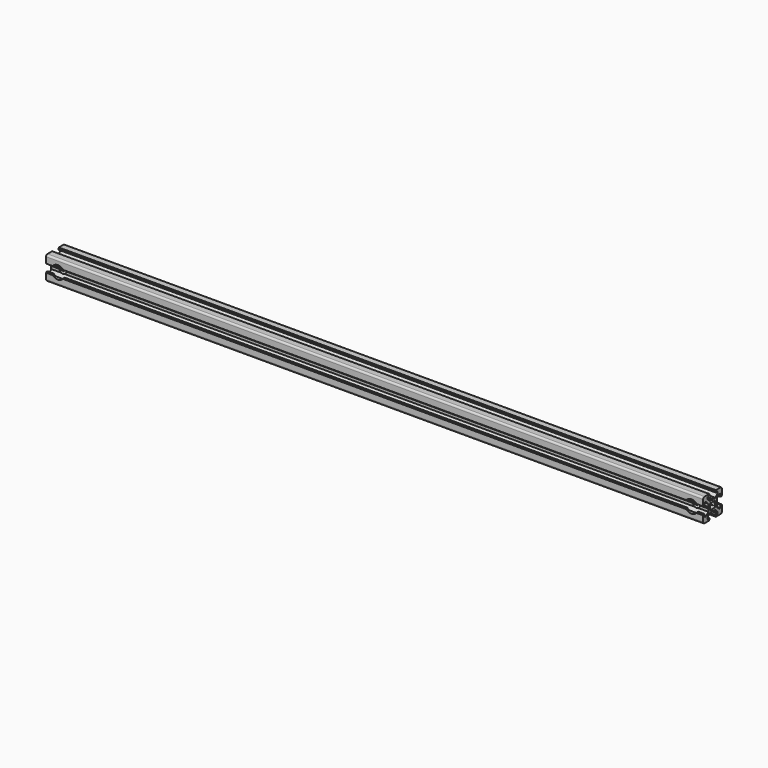
from build123d import *

# Parameters (mm, degrees)
PAD_DEPTH       = 560
SKETCH001_R     = 3.25
POCKET_DEPTH    = 21
SKETCH002_R     = 5.5
POCKET001_DEPTH = 2


with BuildPart() as part:
    # Sketch → Pad (new body)
    with BuildSketch(Plane.YZ):
        with BuildLine():
            Line((0, 4.1), (0.65, 4.5))
            Line((0.65, 4.5), (3, 4.5))
            Line((3, 4.5), (5.5, 7))
            Line((5.5, 7), (5.5, 8.5))
            Line((5.5, 8.5), (3, 8.5))
            Line((3, 8.5), (3, 9.5))
            Line((3, 9.5), (3.5, 9.5))
            Line((3.5, 9.5), (3.5, 10))
            Line((3.5, 10), (8.5, 10))
            ThreePointArc((10, 8.5), (9.56066, 9.56066), (8.5, 10))
            Line((10, 8.5), (10, 3.5))
            Line((10, 3.5), (9.5, 3.5))
            Line((9.5, 3.5), (9.5, 3))
            Line((9.5, 3), (8.5, 3))
            Line((8.5, 3), (8.5, 5.5))
            Line((8.5, 5.5), (7, 5.5))
            Line((7, 5.5), (4.5, 3))
            Line((4.5, 3), (4.5, 0.65))
            Line((4.5, 0.65), (4.1, 0))
            Line((4.5, -0.65), (4.1, 0))
            Line((4.5, -3), (4.5, -0.65))
            Line((7, -5.5), (4.5, -3))
            Line((8.5, -5.5), (7, -5.5))
            Line((8.5, -3), (8.5, -5.5))
            Line((9.5, -3), (8.5, -3))
            Line((9.5, -3.5), (9.5, -3))
            Line((10, -3.5), (9.5, -3.5))
            Line((10, -8.5), (10, -3.5))
            ThreePointArc((8.5, -10), (9.56066, -9.56066), (10, -8.5))
            Line((3.5, -10), (8.5, -10))
            Line((3.5, -9.5), (3.5, -10))
            Line((3, -9.5), (3.5, -9.5))
            Line((3, -8.5), (3, -9.5))
            Line((5.5, -8.5), (3, -8.5))
            Line((5.5, -7), (5.5, -8.5))
            Line((3, -4.5), (5.5, -7))
            Line((0.65, -4.5), (3, -4.5))
            Line((0, -4.1), (0.65, -4.5))
            Line((0, -4.1), (-0.65, -4.5))
            Line((-0.65, -4.5), (-3, -4.5))
            Line((-3, -4.5), (-5.5, -7))
            Line((-5.5, -7), (-5.5, -8.5))
            Line((-5.5, -8.5), (-3, -8.5))
            Line((-3, -8.5), (-3, -9.5))
            Line((-3, -9.5), (-3.5, -9.5))
            Line((-3.5, -9.5), (-3.5, -10))
            Line((-3.5, -10), (-8.5, -10))
            ThreePointArc((-10, -8.5), (-9.56066, -9.56066), (-8.5, -10))
            Line((-10, -8.5), (-10, -3.5))
            Line((-10, -3.5), (-9.5, -3.5))
            Line((-9.5, -3.5), (-9.5, -3))
            Line((-9.5, -3), (-8.5, -3))
            Line((-8.5, -3), (-8.5, -5.5))
            Line((-8.5, -5.5), (-7, -5.5))
            Line((-7, -5.5), (-4.5, -3))
            Line((-4.5, -3), (-4.5, -0.65))
            Line((-4.5, -0.65), (-4.1, 0))
            Line((-4.5, 0.65), (-4.1, 0))
            Line((-4.5, 3), (-4.5, 0.65))
            Line((-7, 5.5), (-4.5, 3))
            Line((-8.5, 5.5), (-7, 5.5))
            Line((-8.5, 3), (-8.5, 5.5))
            Line((-9.5, 3), (-8.5, 3))
            Line((-9.5, 3.5), (-9.5, 3))
            Line((-10, 3.5), (-9.5, 3.5))
            Line((-10, 8.5), (-10, 3.5))
            ThreePointArc((-8.5, 10), (-9.56066, 9.56066), (-10, 8.5))
            Line((-3.5, 10), (-8.5, 10))
            Line((-3.5, 9.5), (-3.5, 10))
            Line((-3, 9.5), (-3.5, 9.5))
            Line((-3, 8.5), (-3, 9.5))
            Line((-5.5, 8.5), (-3, 8.5))
            Line((-5.5, 7), (-5.5, 8.5))
            Line((-3, 4.5), (-5.5, 7))
            Line((-0.65, 4.5), (-3, 4.5))
            Line((0, 4.1), (-0.65, 4.5))
        make_face()
        with BuildLine():
            Line((1.340499, 2.401159), (1.923239, 2.983899))
            Line((1.923239, 2.983899), (2.983899, 1.923239))
            Line((2.983899, 1.923239), (2.401159, 1.340499))
            ThreePointArc((2.75, 0), (2.661361, 0.692573), (2.401159, 1.340499))
            ThreePointArc((2.401164, -1.34049), (2.661362, -0.692568), (2.75, 0))
            Line((2.983904, -1.92323), (2.401164, -1.34049))
            Line((1.923247, -2.983894), (2.983904, -1.92323))
            Line((1.340507, -2.401154), (1.923247, -2.983894))
            ThreePointArc((0, -2.75), (0.692577, -2.66136), (1.340507, -2.401154))
            ThreePointArc((-1.340507, -2.401154), (-0.692577, -2.66136), (0, -2.75))
            Line((-1.340507, -2.401154), (-1.923247, -2.983894))
            Line((-1.923247, -2.983894), (-2.983904, -1.92323))
            Line((-2.983904, -1.92323), (-2.401164, -1.34049))
            ThreePointArc((-2.75, 0), (-2.661362, -0.692568), (-2.401164, -1.34049))
            ThreePointArc((-2.401159, 1.340499), (-2.661361, 0.692572), (-2.75, 0))
            Line((-2.983899, 1.923239), (-2.401159, 1.340499))
            Line((-1.923239, 2.983899), (-2.983899, 1.923239))
            Line((-1.340499, 2.401159), (-1.923239, 2.983899))
            ThreePointArc((0, 2.75), (-0.692573, 2.661361), (-1.340499, 2.401159))
            ThreePointArc((1.340499, 2.401159), (0.692573, 2.661361), (0, 2.75))
        make_face(mode=Mode.SUBTRACT)
    extrude(amount=PAD_DEPTH)

    # Sketch001 → Pocket (cut)
    with BuildSketch(Plane.XZ.offset(10)):
        with Locations((10, 0)):
            Circle(SKETCH001_R)
        with Locations((550, 0)):
            Circle(SKETCH001_R)
    extrude(amount=-POCKET_DEPTH, mode=Mode.SUBTRACT)

    # Sketch002 → Pocket001 (cut)
    with BuildSketch(Plane.XZ.offset(10)):
        with Locations((10, 0)):
            Circle(SKETCH002_R)
        with Locations((550, 0)):
            Circle(SKETCH002_R)
    extrude(amount=-POCKET001_DEPTH, mode=Mode.SUBTRACT)


solid = part.part
